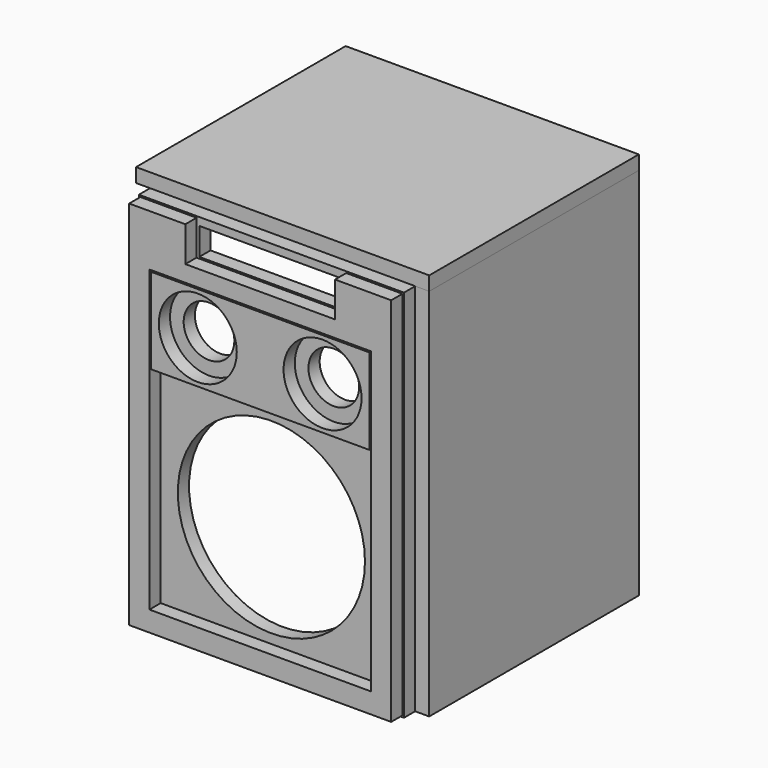
from build123d import *

# Parameters (mm, degrees)
F0_W      = 340
F0_H      = 480
F0_R      = 120
F0_R_2    = 32.5
F0_W_2    = 185
F0_H_2    = 35
F1_DEPTH  = 18
F2_W      = 280
F2_H      = 110
F2_R      = 50
F3_DEPTH  = 18
F4_W      = 284
F4_H      = 384
F5_DEPTH  = 18
F6_W      = 336
F6_H      = 480
F7_DEPTH  = 18
F8_W      = 340
F8_H      = 480
F9_DEPTH  = 18
F11_W     = 340
F11_H     = 480
F11_W_2   = 90
F11_H_2   = 200
F12_DEPTH = 18
F13_W     = 376
F13_H     = 336
F14_DEPTH = 18


with BuildPart() as f1:
    # F0 (on Front) → F1 (new body)
    with BuildSketch(Plane.XZ):
        Rectangle(F0_W, F0_H)
        with Locations((0, -80)):
            Circle(F0_R, mode=Mode.SUBTRACT)
        with Locations((-80, 115)):
            Circle(F0_R_2, mode=Mode.SUBTRACT)
        with Locations((80, 115)):
            Circle(F0_R_2, mode=Mode.SUBTRACT)
        with Locations((0, 212.5)):
            Rectangle(F0_W_2, F0_H_2, mode=Mode.SUBTRACT)
    extrude(amount=F1_DEPTH)

    # F2 (on face) → F3 (join)
    with BuildSketch(Plane.XZ.offset(18)):
        with Locations((0, 115)):
            Rectangle(F2_W, F2_H)
        with Locations((-80, 115)):
            Circle(F2_R, mode=Mode.SUBTRACT)
        with Locations((80, 115)):
            Circle(F2_R, mode=Mode.SUBTRACT)
    extrude(amount=F3_DEPTH)


with BuildPart() as f5:
    # F4 (on face) → F5 (new body)
    with BuildSketch(Plane.XZ.offset(18)):
        Polygon((-168, 238), (-168, -238), (168, -238), (168, 238), (96, 238), (96, 193), (-96, 193), (-96, 238), align=None)
        with Locations((0, -20)):
            Rectangle(F4_W, F4_H, mode=Mode.SUBTRACT)
    extrude(amount=F5_DEPTH)


with BuildPart() as f7:
    # F6 (on face) → F7 (new body)
    with BuildSketch(Plane.YZ.offset(170)):
        with Locations((168, 0)):
            Rectangle(F6_W, F6_H)
    extrude(amount=F7_DEPTH)


with BuildPart() as f9:
    # F8 (on face) → F9 (new body)
    with BuildSketch(Plane(origin=(0, 0, 0), x_dir=(-1, 0, 0), z_dir=(0, 1, 0))):
        Rectangle(F8_W, F8_H)
    extrude(amount=F9_DEPTH)


with BuildPart() as f12:
    # F11 (on face) → F12 (new body)
    with BuildSketch(Plane(origin=(0, 336, 0), x_dir=(-1, 0, 0), z_dir=(0, 1, 0))):
        Rectangle(F11_W, F11_H)
        Rectangle(F11_W_2, F11_H_2, mode=Mode.SUBTRACT)
    extrude(amount=F12_DEPTH)


with BuildPart() as f14:
    # F13 (on face) → F14 (new body)
    with BuildSketch(Plane.XY.offset(240)):
        with Locations((0, 168)):
            Rectangle(F13_W, F13_H)
    extrude(amount=F14_DEPTH)


solid = Compound([f1.part, f5.part, f7.part, f12.part, f14.part])
